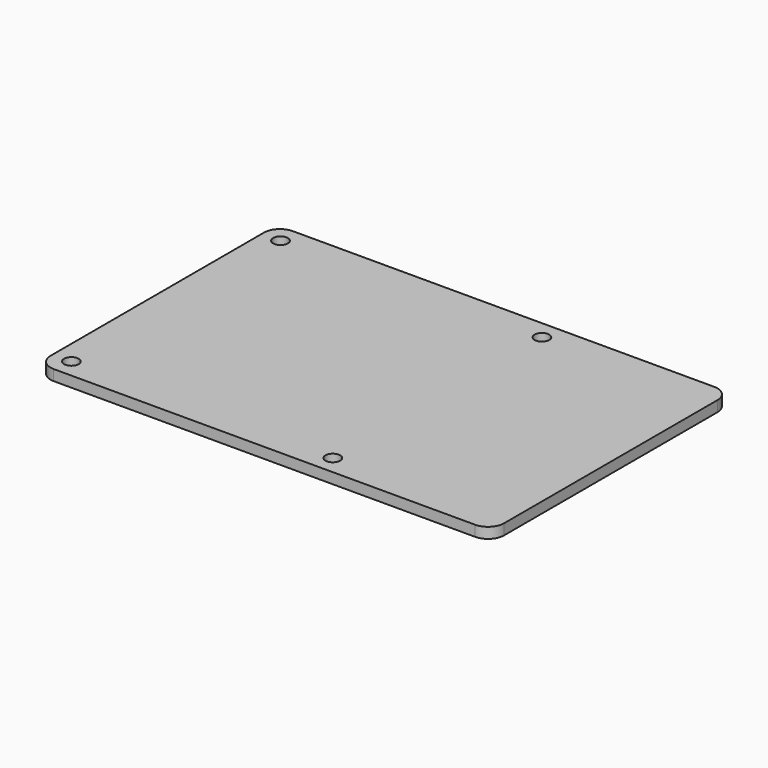
from build123d import *

# Parameters (mm, degrees)
F0_R     = 3.1
F0_R_2   = 1.375
F1_DEPTH = 2


with BuildPart() as f1:
    # F0 (on Top) → F1 (new body)
    with BuildSketch(Plane.XY):
        with BuildLine():
            Line((39.5, 28), (-39.5, 28))
            ThreePointArc((-39.5, 28), (-41.62132, 27.12132), (-42.5, 25))
            Line((-42.5, 25), (-42.5, -25))
            ThreePointArc((-42.5, -25), (-41.62132, -27.12132), (-39.5, -28))
            Line((-39.5, -28), (39.5, -28))
            ThreePointArc((39.5, -28), (41.62132, -27.12132), (42.5, -25))
            Line((42.5, -25), (42.5, 25))
            ThreePointArc((42.5, 25), (41.62132, 27.12132), (39.5, 28))
        make_face()
        with Locations((-39, -24.5)):
            Circle(F0_R, mode=Mode.SUBTRACT)
        with Locations((10, -24.5)):
            Circle(F0_R, mode=Mode.SUBTRACT)
        with Locations((-39, 24.5)):
            Circle(F0_R, mode=Mode.SUBTRACT)
        with Locations((10, 24.5)):
            Circle(F0_R, mode=Mode.SUBTRACT)
        with Locations((10, 24.5)):
            Circle(F0_R)
        with Locations((10, 24.5)):
            Circle(F0_R_2, mode=Mode.SUBTRACT)
        with Locations((10, -24.5)):
            Circle(F0_R)
        with Locations((10, -24.5)):
            Circle(F0_R_2, mode=Mode.SUBTRACT)
        with Locations((-39, -24.5)):
            Circle(F0_R)
        with Locations((-39, -24.5)):
            Circle(F0_R_2, mode=Mode.SUBTRACT)
        with Locations((-39, 24.5)):
            Circle(F0_R)
        with Locations((-39, 24.5)):
            Circle(F0_R_2, mode=Mode.SUBTRACT)
    extrude(amount=F1_DEPTH)


solid = f1.part
